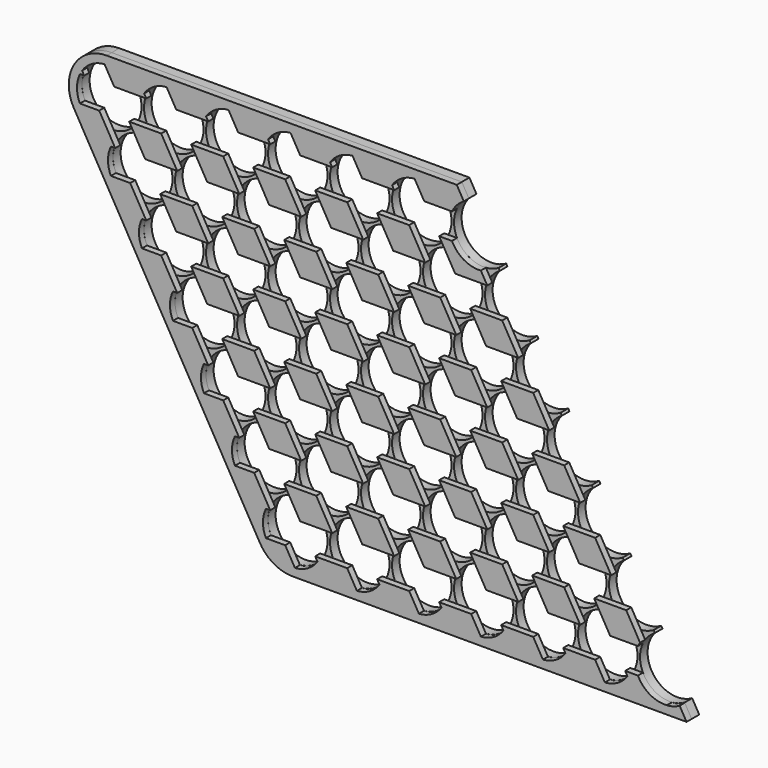
from build123d import *

# Parameters (mm, degrees)
F0_R     = 9.4
F1_DEPTH = 3
F3_DEPTH = 2
F5_DEPTH = 2
F7_DEPTH = 2


with BuildPart() as f1:
    # F0 (on Front) → F1 (new body)
    with BuildSketch(Plane.XZ):
        with BuildLine():
            ThreePointArc((122.3, -8.1406387956), (109.4593612044, -4.7), (112.9, 8.1406387956))
            Line((112.9, 8.1406387956), (110.6717967697, 12))
            Line((110.6717967697, 12), (0, 12))
            ThreePointArc((0, 12), (-10.3923048454, 6), (-10.3923048454, -6))
            Line((-10.3923048454, -6), (48.4076951546, -107.8445874851))
            ThreePointArc((48.4076951546, -107.8445874851), (52.8, -112.2368923305), (58.8, -113.8445874851))
            Line((58.8, -113.8445874851), (183.3282032303, -113.844587485))
            Line((183.3282032303, -113.844587485), (181.1, -109.9852262806))
            ThreePointArc((181.1, -109.9852262806), (168.2593612044, -106.544587485), (171.7, -93.7039486895))
            Line((171.7, -93.7039486895), (171.3, -93.0111283664))
            ThreePointArc((171.3, -93.0111283664), (158.4593612044, -89.5704895709), (161.9, -76.7298507753))
            Line((161.9, -76.7298507753), (161.5, -76.0370304523))
            ThreePointArc((161.5, -76.0370304523), (148.6593612044, -72.5963916567), (152.1, -59.7557528611))
            Line((152.1, -59.7557528611), (151.7, -59.0629325381))
            ThreePointArc((151.7, -59.0629325381), (138.8593612044, -55.6222937425), (142.3, -42.781654947))
            Line((142.3, -42.781654947), (141.9, -42.0888346239))
            ThreePointArc((141.9, -42.0888346239), (129.0593612044, -38.6481958284), (132.5, -25.8075570328))
            Line((132.5, -25.8075570328), (132.1, -25.1147367097))
            ThreePointArc((132.1, -25.1147367097), (119.2593612044, -21.6740979142), (122.7, -8.8334591186))
            Line((122.7, -8.8334591186), (122.3, -8.1406387956))
        make_face()
        with Locations((58.8, -101.8445874851)):
            Circle(F0_R, mode=Mode.SUBTRACT)
        with Locations((78.4, -101.8445874851)):
            Circle(F0_R, mode=Mode.SUBTRACT)
        with Locations((49, -84.8704895709)):
            Circle(F0_R, mode=Mode.SUBTRACT)
        with Locations((68.6, -84.8704895709)):
            Circle(F0_R, mode=Mode.SUBTRACT)
        with Locations((39.2, -67.8963916567)):
            Circle(F0_R, mode=Mode.SUBTRACT)
        with Locations((58.8, -67.8963916567)):
            Circle(F0_R, mode=Mode.SUBTRACT)
        with Locations((78.4, -67.8963916567)):
            Circle(F0_R, mode=Mode.SUBTRACT)
        with Locations((98, -101.8445874851)):
            Circle(F0_R, mode=Mode.SUBTRACT)
        with Locations((117.6, -101.8445874851)):
            Circle(F0_R, mode=Mode.SUBTRACT)
        with Locations((88.2, -84.8704895709)):
            Circle(F0_R, mode=Mode.SUBTRACT)
        with Locations((107.8, -84.8704895709)):
            Circle(F0_R, mode=Mode.SUBTRACT)
        with Locations((127.4, -84.8704895709)):
            Circle(F0_R, mode=Mode.SUBTRACT)
        with Locations((137.2, -101.8445874851)):
            Circle(F0_R, mode=Mode.SUBTRACT)
        with Locations((156.8, -101.8445874851)):
            Circle(F0_R, mode=Mode.SUBTRACT)
        with Locations((147, -84.8704895709)):
            Circle(F0_R, mode=Mode.SUBTRACT)
        with Locations((98, -67.8963916567)):
            Circle(F0_R, mode=Mode.SUBTRACT)
        with Locations((117.6, -67.8963916567)):
            Circle(F0_R, mode=Mode.SUBTRACT)
        with Locations((137.2, -67.8963916567)):
            Circle(F0_R, mode=Mode.SUBTRACT)
        with Locations((29.4, -50.9222937425)):
            Circle(F0_R, mode=Mode.SUBTRACT)
        with Locations((19.6, -33.9481958284)):
            Circle(F0_R, mode=Mode.SUBTRACT)
        with Locations((49, -50.9222937425)):
            Circle(F0_R, mode=Mode.SUBTRACT)
        with Locations((68.6, -50.9222937425)):
            Circle(F0_R, mode=Mode.SUBTRACT)
        with Locations((39.2, -33.9481958284)):
            Circle(F0_R, mode=Mode.SUBTRACT)
        with Locations((58.8, -33.9481958284)):
            Circle(F0_R, mode=Mode.SUBTRACT)
        with Locations((78.4, -33.9481958284)):
            Circle(F0_R, mode=Mode.SUBTRACT)
        with Locations((9.8, -16.9740979142)):
            Circle(F0_R, mode=Mode.SUBTRACT)
        with Locations((29.4, -16.9740979142)):
            Circle(F0_R, mode=Mode.SUBTRACT)
        Circle(F0_R, mode=Mode.SUBTRACT)
        with Locations((19.6, 0)):
            Circle(F0_R, mode=Mode.SUBTRACT)
        with Locations((49, -16.9740979142)):
            Circle(F0_R, mode=Mode.SUBTRACT)
        with Locations((68.6, -16.9740979142)):
            Circle(F0_R, mode=Mode.SUBTRACT)
        with Locations((39.2, 0)):
            Circle(F0_R, mode=Mode.SUBTRACT)
        with Locations((58.8, 0)):
            Circle(F0_R, mode=Mode.SUBTRACT)
        with Locations((78.4, 0)):
            Circle(F0_R, mode=Mode.SUBTRACT)
        with Locations((88.2, -50.9222937425)):
            Circle(F0_R, mode=Mode.SUBTRACT)
        with Locations((107.8, -50.9222937425)):
            Circle(F0_R, mode=Mode.SUBTRACT)
        with Locations((127.4, -50.9222937425)):
            Circle(F0_R, mode=Mode.SUBTRACT)
        with Locations((98, -33.9481958284)):
            Circle(F0_R, mode=Mode.SUBTRACT)
        with Locations((117.6, -33.9481958284)):
            Circle(F0_R, mode=Mode.SUBTRACT)
        with Locations((88.2, -16.9740979142)):
            Circle(F0_R, mode=Mode.SUBTRACT)
        with Locations((107.8, -16.9740979142)):
            Circle(F0_R, mode=Mode.SUBTRACT)
        with Locations((98, 0)):
            Circle(F0_R, mode=Mode.SUBTRACT)
    extrude(amount=F1_DEPTH)


with BuildPart() as f3:
    # F2 (on face) → F3 (new body)
    with BuildSketch(Plane.XZ.offset(3)):
        with BuildLine():
            Line((110.6717967697, 12), (0, 12))
            ThreePointArc((0, 12), (-10.3923048454, 6), (-10.3923048454, -6))
            Line((-10.3923048454, -6), (48.4076951546, -107.8445874851))
            ThreePointArc((48.4076951546, -107.8445874851), (52.8, -112.2368923305), (58.8, -113.8445874851))
            Line((58.8, -113.8445874851), (183.3282032303, -113.844587485))
            Line((183.3282032303, -113.844587485), (176.4, -101.8445874851))
            Line((176.4, -101.8445874851), (117.6, 0))
            Line((117.6, 0), (110.6717967697, 12))
        make_face()
    extrude(amount=F3_DEPTH)

    # F4 (on face) → F5 (cut, through all)
    with BuildSketch(Plane.XZ.offset(5)):
        with BuildLine():
            Line((174.0328638963, -97.744587485), (171.7, -93.7039486895))
            ThreePointArc((171.7, -93.7039486895), (169.51743578, -95.4422199732), (167.9412766921, -97.744587485))
            Line((167.9412766921, -97.744587485), (174.0328638963, -97.744587485))
        make_face()
        with BuildLine():
            Line((168.9671361037, -88.9704895709), (164.2328638963, -80.7704895709))
            Line((164.2328638963, -80.7704895709), (40.5412766921, -80.7704895709))
            ThreePointArc((40.5412766921, -80.7704895709), (39.6, -84.8704895709), (40.5412766921, -88.9704895709))
            Line((40.5412766921, -88.9704895709), (168.9671361037, -88.9704895709))
        make_face()
        with BuildLine():
            Line((159.1671361037, -71.9963916567), (154.4328638963, -63.7963916567))
            Line((154.4328638963, -63.7963916567), (30.7412766921, -63.7963916567))
            ThreePointArc((30.7412766921, -63.7963916567), (29.8, -67.8963916567), (30.7412766921, -71.9963916567))
            Line((30.7412766921, -71.9963916567), (159.1671361037, -71.9963916567))
        make_face()
        with BuildLine():
            Line((149.3671361037, -55.0222937425), (144.6328638963, -46.8222937425))
            Line((144.6328638963, -46.8222937425), (20.9412766921, -46.8222937425))
            ThreePointArc((20.9412766921, -46.8222937425), (20, -50.9222937425), (20.9412766921, -55.0222937425))
            Line((20.9412766921, -55.0222937425), (149.3671361037, -55.0222937425))
        make_face()
        with BuildLine():
            Line((139.5671361037, -38.0481958284), (134.8328638963, -29.8481958283))
            Line((134.8328638963, -29.8481958283), (11.1412766921, -29.8481958284))
            ThreePointArc((11.1412766921, -29.8481958283), (10.2, -33.9481958284), (11.1412766921, -38.0481958284))
            Line((11.1412766921, -38.0481958284), (139.5671361037, -38.0481958284))
        make_face()
        with BuildLine():
            Line((129.7671361037, -21.0740979142), (125.0328638963, -12.8740979142))
            Line((125.0328638963, -12.8740979142), (1.3412766921, -12.8740979142))
            ThreePointArc((1.3412766921, -12.8740979142), (0.4, -16.9740979142), (1.3412766921, -21.0740979142))
            Line((1.3412766921, -21.0740979142), (129.7671361037, -21.0740979142))
        make_face()
        with BuildLine():
            Line((109.1412766921, 4.1), (-8.4587233079, 4.1))
            ThreePointArc((-8.4587233079, 4.1), (-9.4, 0), (-8.4587233079, -4.1))
            Line((-8.4587233079, -4.1), (109.1412766921, -4.1))
            ThreePointArc((109.1412766921, -4.1), (108.2, 0), (109.1412766921, 4.1))
        make_face()
        with BuildLine():
            ThreePointArc((112.9, 8.1406387956), (110.71743578, 6.4023675119), (109.1412766921, 4.1))
            Line((109.1412766921, 4.1), (115.2328638963, 4.1))
            Line((115.2328638963, 4.1), (112.9, 8.1406387956))
        make_face()
        with BuildLine():
            Line((115.2328638963, 4.1), (109.1412766921, 4.1))
            ThreePointArc((109.1412766921, 4.1), (108.2, 0), (109.1412766921, -4.1))
            Line((109.1412766921, -4.1), (119.9671361037, -4.1))
            Line((119.9671361037, -4.1), (117.6, 0))
            Line((117.6, 0), (115.2328638963, 4.1))
        make_face()
        with BuildLine():
            Line((119.9671361037, -4.1), (109.1412766921, -4.1))
            ThreePointArc((109.1412766921, -4.1), (114.8407082982, -8.9858950197), (122.3, -8.1406387956))
            Line((122.3, -8.1406387956), (119.9671361037, -4.1))
        make_face()
        with BuildLine():
            ThreePointArc((167.9412766921, -105.944587485), (167, -101.844587485), (167.9412766921, -97.744587485))
            Line((167.9412766921, -97.744587485), (50.3412766921, -97.744587485))
            ThreePointArc((50.3412766921, -97.744587485), (49.4, -101.844587485), (50.3412766921, -105.9445874851))
            Line((50.3412766921, -105.9445874851), (167.9412766921, -105.9445874851))
        make_face()
        with BuildLine():
            Line((174.0328638963, -97.744587485), (167.9412766921, -97.744587485))
            ThreePointArc((167.9412766921, -97.744587485), (167, -101.844587485), (167.9412766921, -105.944587485))
            Line((167.9412766921, -105.9445874851), (178.7671361037, -105.9445874851))
            Line((178.7671361037, -105.9445874851), (176.4, -101.8445874851))
            Line((176.4, -101.8445874851), (174.0328638963, -97.744587485))
        make_face()
        with BuildLine():
            Line((178.7671361037, -105.9445874851), (167.9412766921, -105.9445874851))
            ThreePointArc((167.9412766921, -105.944587485), (173.6407082982, -110.8304825047), (181.1, -109.9852262806))
            Line((181.1, -109.9852262806), (178.7671361037, -105.9445874851))
        make_face()
    extrude(amount=-F5_DEPTH, mode=Mode.SUBTRACT)

    # F6 (on face) → F7 (cut)
    with BuildSketch(Plane.XZ.offset(5)):
        with BuildLine():
            Line((66.6328057326, -107.2114049797), (-0.6786574984, 9.3754692682))
            ThreePointArc((-0.6786574984, 9.3754692682), (-4.7, 8.1406387956), (-7.7800658095, 5.2754692682))
            Line((-7.7800658095, 5.2754692682), (59.5025299081, -111.2614049797))
            ThreePointArc((59.5025299081, -111.2614049797), (63.5325794799, -110.0549107493), (66.6328057326, -107.2114049797))
        make_face()
        with BuildLine():
            Line((86.2328057326, -107.2114049797), (18.9213425016, 9.3754692682))
            ThreePointArc((18.9213425016, 9.3754692682), (14.9, 8.1406387956), (11.8199341905, 5.2754692682))
            Line((11.8199341905, 5.2754692682), (79.1025299081, -111.2614049797))
            ThreePointArc((79.1025299081, -111.2614049797), (83.1325794799, -110.0549107493), (86.2328057326, -107.2114049797))
        make_face()
        with BuildLine():
            Line((105.8328057326, -107.2114049797), (38.5213425016, 9.3754692682))
            ThreePointArc((38.5213425016, 9.3754692682), (34.5, 8.1406387956), (31.4199341905, 5.2754692682))
            Line((31.4199341905, 5.2754692682), (98.7025299081, -111.2614049797))
            ThreePointArc((98.7025299081, -111.2614049797), (102.7325794799, -110.0549107493), (105.8328057326, -107.2114049797))
        make_face()
        with BuildLine():
            Line((125.4328057326, -107.2114049797), (58.1213425016, 9.3754692682))
            ThreePointArc((58.1213425016, 9.3754692682), (54.1, 8.1406387956), (51.0199341905, 5.2754692682))
            Line((51.0199341905, 5.2754692682), (118.3025299081, -111.2614049797))
            ThreePointArc((118.3025299081, -111.2614049797), (122.3325794799, -110.0549107493), (125.4328057326, -107.2114049797))
        make_face()
        with BuildLine():
            Line((145.0328057326, -107.2114049797), (77.7213425016, 9.3754692682))
            ThreePointArc((77.7213425016, 9.3754692682), (73.7, 8.1406387956), (70.6199341905, 5.2754692682))
            Line((70.6199341905, 5.2754692682), (137.9025299081, -111.2614049797))
            ThreePointArc((137.9025299081, -111.2614049797), (141.9325794799, -110.0549107493), (145.0328057326, -107.2114049797))
        make_face()
        with BuildLine():
            Line((164.6328057326, -107.2114049797), (97.3213425016, 9.3754692682))
            ThreePointArc((97.3213425016, 9.3754692682), (93.3, 8.1406387956), (90.2199341905, 5.2754692682))
            Line((90.2199341905, 5.2754692682), (157.5025299081, -111.2614049797))
            ThreePointArc((157.5025299081, -111.2614049797), (161.5325794799, -110.0549107493), (164.6328057326, -107.2114049797))
        make_face()
        with BuildLine():
            Line((184.2328057326, -107.2114049797), (116.9213425016, 9.3754692682))
            ThreePointArc((116.9213425016, 9.3754692682), (112.9, 8.1406387956), (109.8199341905, 5.2754692682))
            Line((109.8199341905, 5.2754692682), (177.1025299081, -111.2614049797))
            ThreePointArc((177.1025299081, -111.2614049797), (181.1325794799, -110.0549107493), (184.2328057326, -107.2114049797))
        make_face()
    extrude(amount=-F7_DEPTH, mode=Mode.SUBTRACT)


solid = Compound([f1.part, f3.part])
